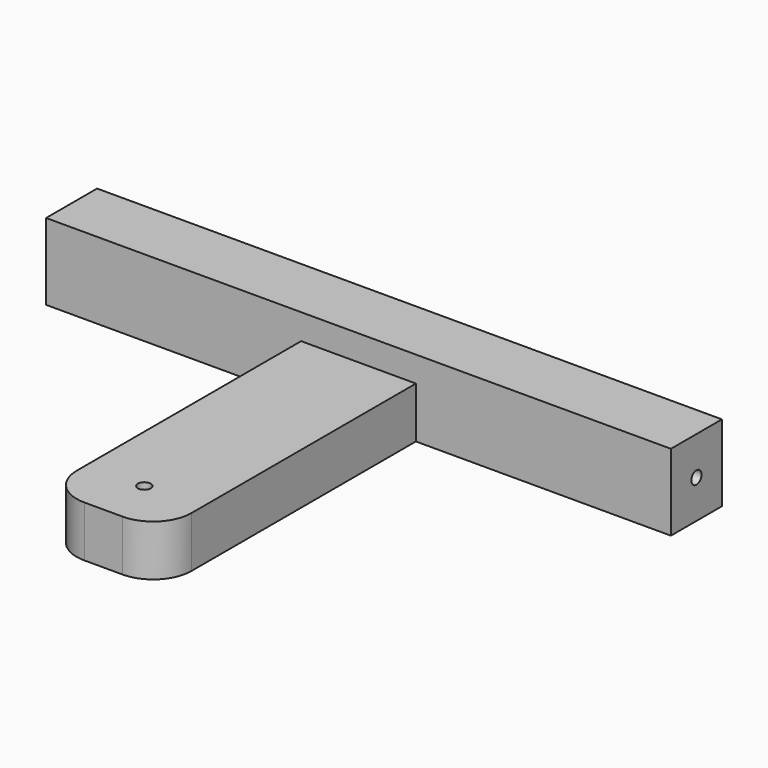
from build123d import *

# Parameters (mm, degrees)
F1_DEPTH      = 25
F3_DEPTH      = 22.5
F3_DEPTH_BACK = 22.5
F4_R          = 15
F6_D          = 5
F8_D          = 5


with BuildPart() as f1:
    # F0 (on Front) → F1 (new body)
    with BuildSketch(Plane.XZ):
        Polygon((-22.5, -20), (0, -20), (0, 0), (-122.5, 0), (-122.5, -30), (-22.5, -30), align=None)
        Polygon((0, 0), (0, -20), (22.5, -20), (22.5, -30), (122.5, -30), (122.5, 0), align=None)
    extrude(amount=F1_DEPTH)

    # F2 (on Right) → F3 (join, two sides)
    with BuildSketch(Plane.YZ) as f3_sk:
        Polygon((-25, -10), (-150, -10), (-150, -30), (0, -30), (0, -20), (-25, -20), align=None)
    extrude(amount=F3_DEPTH)
    extrude(f3_sk.sketch, amount=-F3_DEPTH_BACK)

    # F4
    f4_edges = [f1.edges().sort_by_distance(p)[0] for p in [
        (-22.5, -150, -20),
        (22.5, -150, -20),
    ]]
    fillet(f4_edges, radius=F4_R)

    # F6 (through all)
    with Locations(Plane.XY):
        with Locations((0, -130)):
            Hole(F6_D / 2)

    # F8 (through all)
    with Locations(Plane.YZ.offset(122.5)):
        with Locations((-12.5, -15)):
            Hole(F8_D / 2)


solid = f1.part
